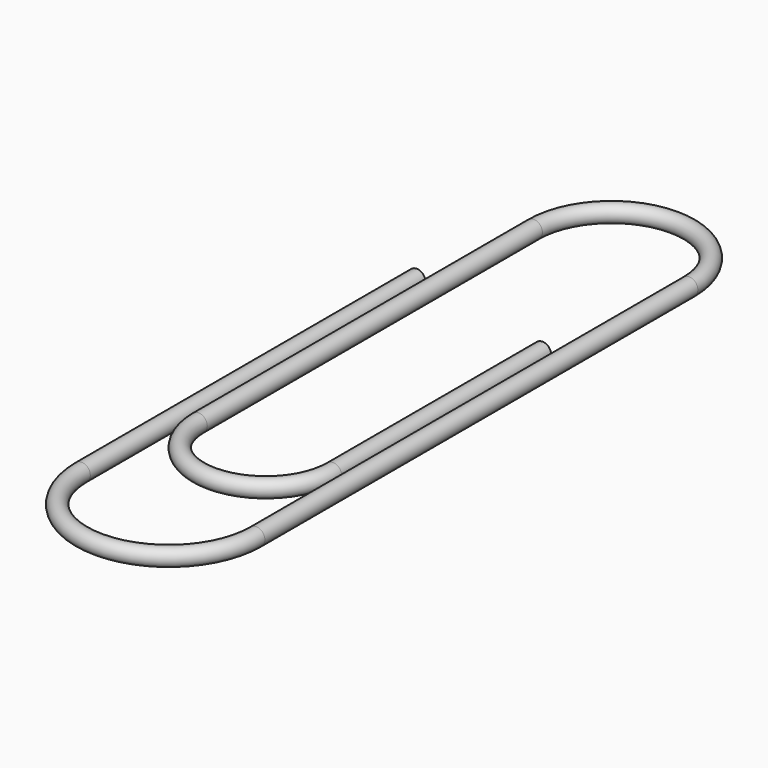
from build123d import *

# Parameters (mm, degrees)
F1_R = 0.5


with BuildPart() as f2:
    # F2: sweep along a path in F0
    with BuildLine(Plane.XY) as f2_path:
        Line((8.8, -2), (8.8, -17))
        ThreePointArc((8.8, -17), (4.95, -20.85), (1.1, -17))
        Line((1.1, -17), (1.1, 7))
        ThreePointArc((1.1, 7), (5.55, 11.45), (10, 7))
        Line((10, 7), (10, -24))
        ThreePointArc((10, -24), (5, -29), (0, -24))
        Line((0, -24), (0, 0))
    # F1 (on Front) → F2 (sweep)
    with BuildSketch(Plane.XZ):
        Circle(F1_R)
    sweep(path=f2_path.line)


solid = f2.part
